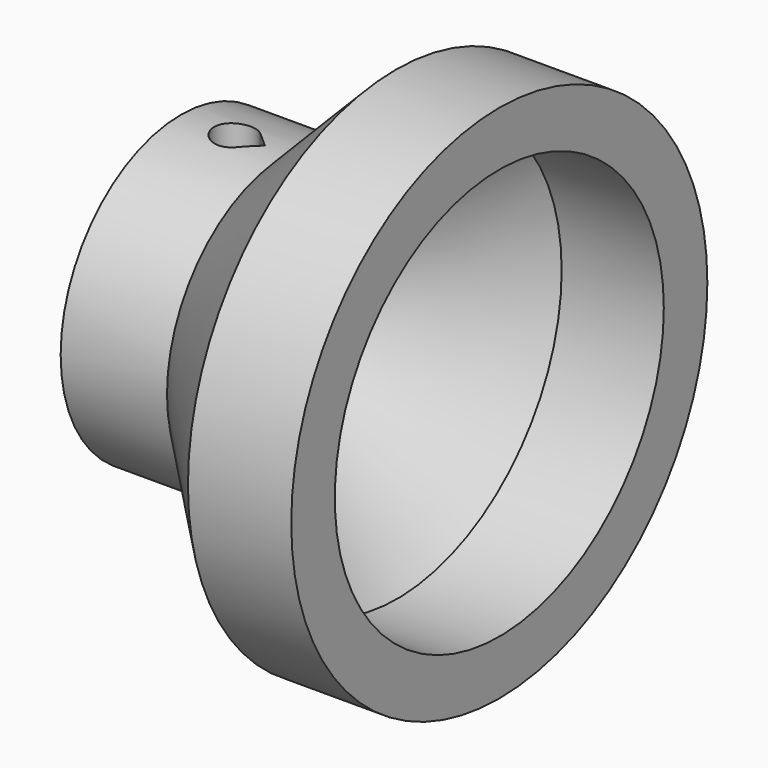
from build123d import *

# Parameters (mm, degrees)
F3_DEPTH = 50


with BuildPart() as f1:
    # F0 (on Top) → F1 (revolve)
    with BuildSketch(Plane.XY):
        Polygon((0, 9.437975), (0, 5.95), (6.671359, 5.95), (13.559332, 12.9), (19.96735, 12.9), (19.96735, 16.314359), (13.486374, 16.314359), (6.671359, 9.437975), align=None)
    revolve(axis=Axis((17.087959, 0, 0), (1, 0, 0)))

    # F2 (on Top) → F3 (cut, symmetric)
    with BuildSketch(Plane.XY):
        with BuildLine():
            ThreePointArc((4.208779, -0.94815), (4.520925, -0.519027), (4.631349, 0))
            ThreePointArc((4.631349, 0), (4.520925, 0.519027), (4.208779, 0.94815))
            ThreePointArc((4.208779, 0.94815), (2.081349, 0), (4.208779, -0.94815))
        make_face()
        with BuildLine():
            ThreePointArc((4.208779, 0.94815), (4.520925, 0.519027), (4.631349, 0))
            ThreePointArc((4.631349, 0), (4.520925, -0.519027), (4.208779, -0.94815))
            Line((4.208779, -0.94815), (5.263398, 0))
            Line((5.263398, 0), (4.208779, 0.94815))
        make_face()
    extrude(amount=F3_DEPTH, both=True, mode=Mode.SUBTRACT)


solid = f1.part
